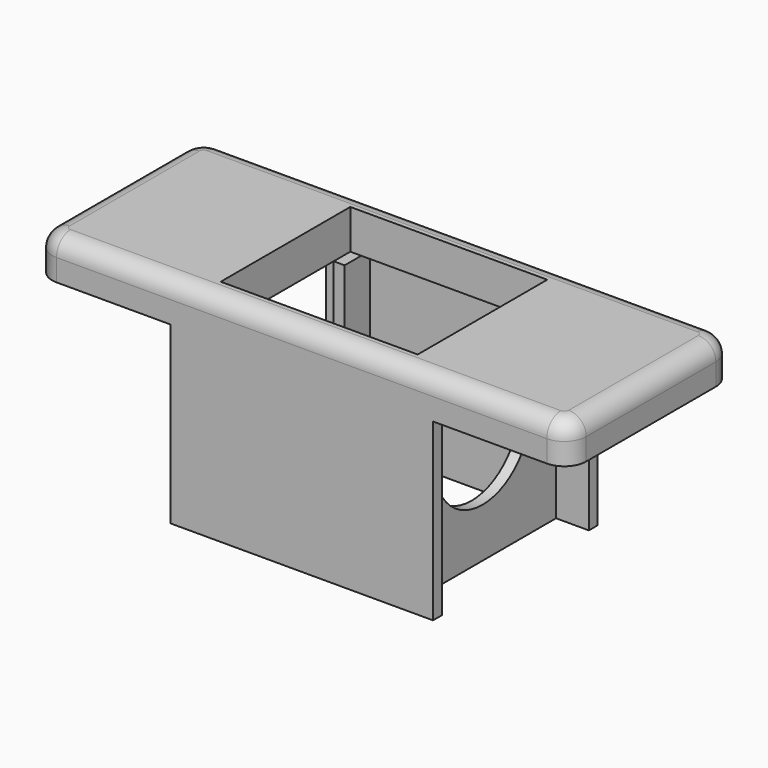
from build123d import *

# Parameters (mm, degrees)
SKETCH001_W     = 24.4
SKETCH001_H     = 9.4
PAD_DEPTH       = 1.8
SKETCH_W        = 8
SKETCH_H        = 8.4
PAD001_DEPTH    = 8
SKETCH002_W     = 9
SKETCH002_H     = 7.4
POCKET_DEPTH    = 1.8
POCKET002_DEPTH = 16.701
FILLET_R        = 1
FILLET001_R     = 0.8


with BuildPart() as part:
    # Sketch001 → Pad (new body)
    with BuildSketch(Plane.XY):
        with Locations((12.2, 4.7)):
            Rectangle(SKETCH001_W, SKETCH001_H)
    extrude(amount=PAD_DEPTH)

    # Sketch (on Face5 of Pad) → Pad001 (join)
    with BuildSketch(Plane(origin=(0, 0, 0), x_dir=(1, 0, 0), z_dir=(0, 0, -1))):
        Polygon((6.2, 0), (6.2, -0.5), (7.7, -0.5), (7.7, -8.9), (6.2, -8.9), (6.2, -9.4), (18.2, -9.4), (18.2, -8.9), (16.7, -8.9), (16.7, -0.5), (18.2, -0.5), (18.2, 0), align=None)
        with Locations((12.2, -4.7)):
            Rectangle(SKETCH_W, SKETCH_H, mode=Mode.SUBTRACT)
    extrude(amount=PAD001_DEPTH)

    # Sketch002 (on Face25 of Pad001) → Pocket (cut)
    with BuildSketch(Plane(origin=(0, 0, 0), x_dir=(1, 0, 0), z_dir=(0, 0, -1))):
        with Locations((12.2, -4.7)):
            Rectangle(SKETCH002_W, SKETCH002_H)
    extrude(amount=-POCKET_DEPTH, mode=Mode.SUBTRACT)

    # Sketch004 → Pocket002 (cut, through all)
    with BuildSketch(Plane(origin=(7.7, 0, 0), x_dir=(0, -1, 0), z_dir=(-1, 0, 0))):
        with BuildLine():
            Line((-7.45, -3), (-7.45, 0))
            Line((-7.45, 0), (-1.95, 0))
            Line((-1.95, 0), (-1.95, -3))
            ThreePointArc((-7.45, -3), (-4.7, -5.75), (-1.95, -3))
        make_face()
    extrude(amount=-POCKET002_DEPTH, mode=Mode.SUBTRACT)

    # Fillet
    fillet_edges = [part.edges().sort_by_distance(p)[0] for p in [
        (0, 0, 0.9),
        (0, 9.4, 0.9),
        (24.4, 0, 0.9),
        (24.4, 9.4, 0.9),
    ]]
    fillet(fillet_edges, radius=FILLET_R)

    # Fillet001
    fillet001_edges = [part.edges().sort_by_distance(p)[0] for p in [
        (0.292893, 0.292893, 1.8),
        (0, 4.7, 1.8),
        (0.292893, 9.107107, 1.8),
        (12.2, 9.4, 1.8),
        (24.107107, 9.107107, 1.8),
        (24.4, 4.7, 1.8),
        (24.107107, 0.292893, 1.8),
        (12.2, 0, 1.8),
    ]]
    fillet(fillet001_edges, radius=FILLET001_R)


solid = part.part
